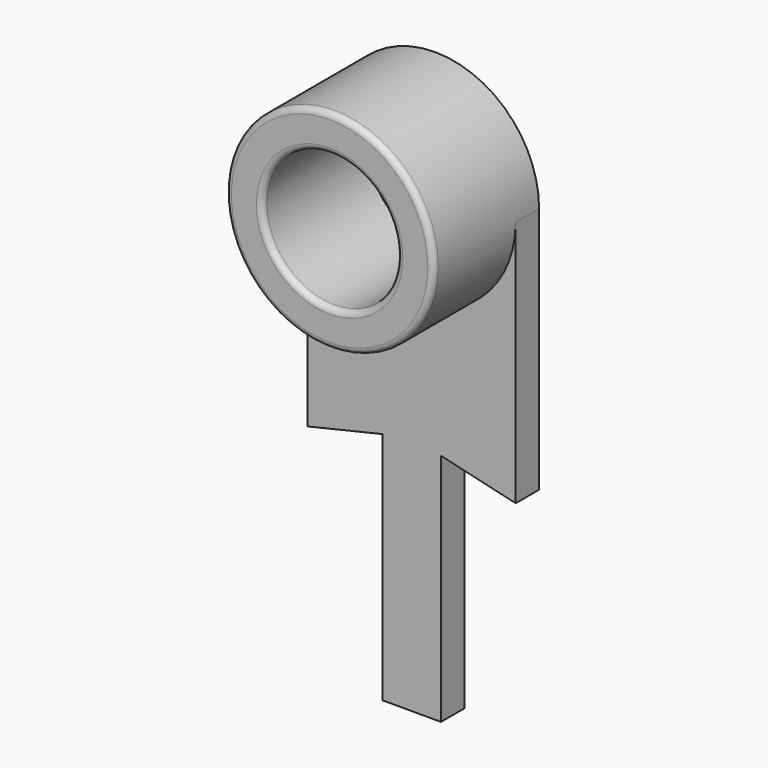
from build123d import *

# Parameters (mm, degrees)
SKETCH007_R   = 1.15
PAD006_DEPTH  = 0.5
SKETCH008_R   = 1.775
SKETCH008_R_2 = 1.15
PAD007_DEPTH  = 1.75
FILLET003_R   = 0.1


with BuildPart() as part:
    # Sketch007 → Pad006 (new body)
    with BuildSketch(Plane.XZ):
        with BuildLine():
            Line((1.775, 0), (1.775, -4.225))
            Line((1.775, -4.225), (0.5, -3.925))
            Line((0.5, -3.925), (0.5, -7.925))
            Line((0.5, -7.925), (-0.5, -7.925))
            Line((-0.5, -7.925), (-0.5, -3.925))
            Line((-0.5, -3.925), (-1.775, -4.225))
            Line((-1.775, -4.225), (-1.775, 0))
            ThreePointArc((1.775, 0), (0, 1.775), (-1.775, 0))
        make_face()
        Circle(SKETCH007_R, mode=Mode.SUBTRACT)
    extrude(amount=PAD006_DEPTH)

    # Sketch008 (on Face11 of Pad006) → Pad007 (join)
    with BuildSketch(Plane.XZ.offset(0.5)):
        Circle(SKETCH008_R)
        Circle(SKETCH008_R_2, mode=Mode.SUBTRACT)
    extrude(amount=PAD007_DEPTH)

    # Fillet003
    fillet003_edges = [part.edges().sort_by_distance(p)[0] for p in [
        (-1.775, -2.25, 0),
        (-1.15, -2.25, 0),
    ]]
    fillet(fillet003_edges, radius=FILLET003_R)


with BuildPart() as part_1:
    # Body022 placement: moved
    add(part.part.moved(Location((5, 0.5, -8))))


solid = part_1.part
